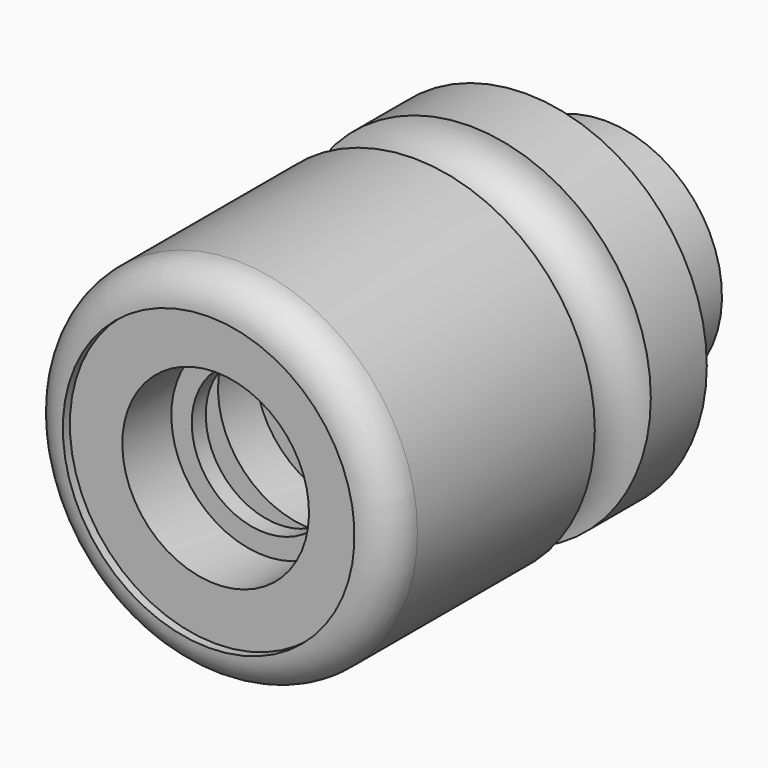
from build123d import *

# Parameters (mm, degrees)
F0_W = 3
F0_H = 16


with BuildPart() as f1:
    # F0 (on Right) → F1 (revolve)
    with BuildSketch(Plane.YZ):
        with BuildLine():
            Line((0, 25), (0, 0))
            Line((0, 0), (44, 0))
            Line((44, 0), (44, 31))
            Line((44, 31), (6, 31))
            ThreePointArc((6, 31), (1.757359, 29.242641), (0, 25))
        make_face()
        with BuildLine():
            Line((44, 31), (44, 0))
            Line((44, 0), (56, 0))
            Line((56, 0), (56, 31))
            ThreePointArc((56, 31), (50, 25), (44, 31))
        make_face()
        Polygon((56, 31), (56, 0), (68, 0), (68, 20), (68, 31), align=None)
        Polygon((68, 20), (68, 0), (85, 0), (85, 16), (85, 20), align=None)
        with Locations((86.5, 8)):
            Rectangle(F0_W, F0_H)
    revolve(axis=Axis((0, 17.846598, 0), (0, 1, 0)))

    # F2 (on Right) → F3 (revolve, cut)
    with BuildSketch(Plane.YZ):
        Polygon((0, 25), (0, 0), (88, 0), (88, 6), (30, 6), (30, 16), (22, 16), (22, 20.5), (15, 20.5), (15, 12.5), (12, 12.5), (12, 16), (1.5, 16), (1.5, 25), align=None)
    revolve(axis=Axis((0, 35.128961, 0), (0, 1, 0)), mode=Mode.SUBTRACT)


solid = f1.part
